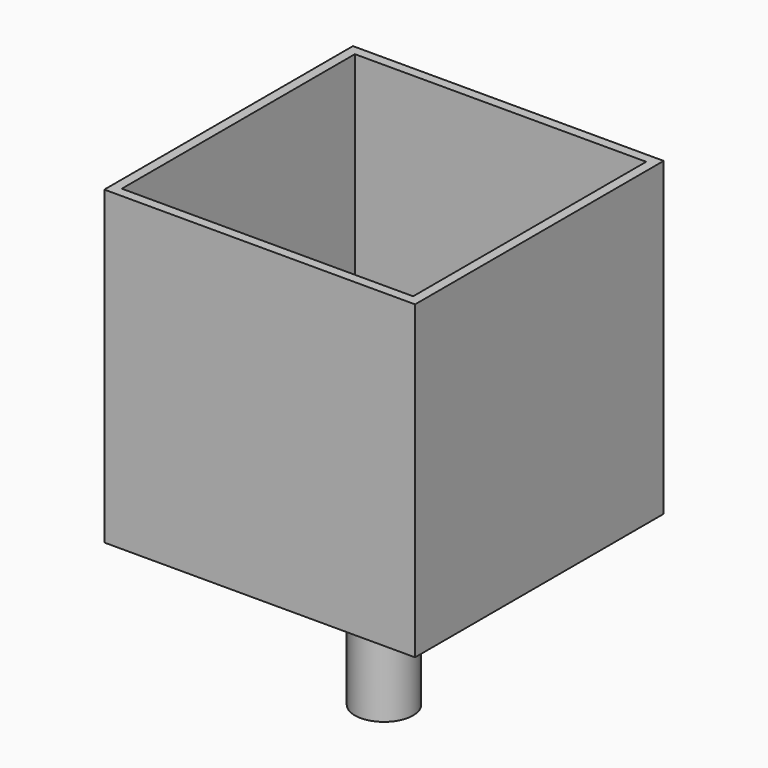
from build123d import *

# Parameters (mm, degrees)
F0_W     = 203.2
F0_H     = 203.2
F1_DEPTH = 203.2
F2_T     = -6.35
F4_D     = 38.1
F3_R     = 19.05
F5_DEPTH = 101.6
F6_D     = 31.75


with BuildPart() as f1:
    # F0 (on Front) → F1 (new body)
    with BuildSketch(Plane.XZ):
        with Locations((-101.6, 101.6)):
            Rectangle(F0_W, F0_H)
    extrude(amount=F1_DEPTH)

    # F2
    f2_openings = [f1.faces().sort_by_distance(p)[0] for p in [
        (-101.6, -101.6, 203.2),
    ]]
    offset(amount=F2_T, openings=f2_openings)

    # F4 (through all)
    with Locations(Plane(origin=(0, 0, 0), x_dir=(1, 0, 0), z_dir=(0, 0, -1))):
        with Locations((-101.6, 101.6)):
            Hole(F4_D / 2)


with BuildPart() as f5:
    # F3 (on face) → F5 (new body)
    with BuildSketch(Plane(origin=(0, 0, 0), x_dir=(1, 0, 0), z_dir=(0, 0, -1))):
        with Locations((-101.6, 101.6)):
            Circle(F3_R)
    extrude(amount=F5_DEPTH)

    # F6 (through all)
    with Locations(Plane.XY):
        with Locations((-101.6, -101.6)):
            Hole(F6_D / 2)


solid = Compound([f1.part, f5.part])
